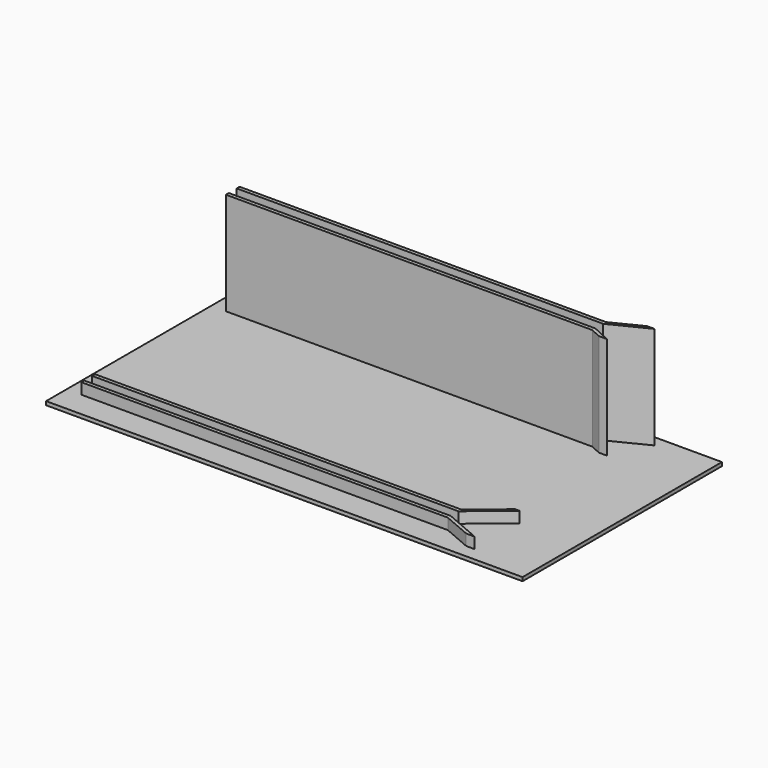
from build123d import *

# Parameters (mm, degrees)
SKETCH_W     = 130
SKETCH_H     = 68
PAD_DEPTH    = 1
SKETCH001_W  = 100
SKETCH001_H  = 1
PAD001_DEPTH = 3
SKETCH002_W  = 100
SKETCH002_H  = 1
PAD002_DEPTH = 3
PAD003_DEPTH = 3
SKETCH004_W  = 100
SKETCH004_H  = 1
PAD004_DEPTH = 28
SKETCH005_W  = 100
SKETCH005_H  = 1
PAD005_DEPTH = 28
PAD006_DEPTH = 28
SKETCH007_W  = 100
SKETCH007_H  = 2.7
PAD007_DEPTH = 25


with BuildPart() as part:
    # Sketch → Pad (new body)
    with BuildSketch(Plane.XY):
        with Locations((65, 34)):
            Rectangle(SKETCH_W, SKETCH_H)
    extrude(amount=-PAD_DEPTH)

    # Sketch001 → Pad001 (join)
    with BuildSketch(Plane.XY):
        with Locations((54, 7.5)):
            Rectangle(SKETCH001_W, SKETCH001_H)
    extrude(amount=PAD001_DEPTH)

    # Sketch002 → Pad002 (join)
    with BuildSketch(Plane.XY):
        with Locations((54, 11.2)):
            Rectangle(SKETCH002_W, SKETCH002_H)
    extrude(amount=PAD002_DEPTH)

    # Sketch003 → Pad003 (join)
    with BuildSketch(Plane.XY):
        Polygon((104, 10.7), (114, 19), (112.795181, 19), (104, 11.7), align=None)
        Polygon((104, 8), (114, 3.7), (111.674419, 3.7), (104, 7), align=None)
    extrude(amount=PAD003_DEPTH)

    # Sketch004 → Pad004 (join)
    with BuildSketch(Plane.XY):
        with Locations((54, 56.8)):
            Rectangle(SKETCH004_W, SKETCH004_H)
    extrude(amount=PAD004_DEPTH)

    # Sketch005 → Pad005 (join)
    with BuildSketch(Plane.XY):
        with Locations((54, 60.5)):
            Rectangle(SKETCH005_W, SKETCH005_H)
    extrude(amount=PAD005_DEPTH)

    # Sketch006 → Pad006 (join)
    with BuildSketch(Plane.XY):
        Polygon((104, 61), (112, 65), (114, 65), (104, 60), align=None)
        Polygon((104, 57.3), (109, 55), (106.826087, 55), (104, 56.3), align=None)
    extrude(amount=PAD006_DEPTH)

    # Sketch007 → Pad007 (join)
    with BuildSketch(Plane.XY):
        with Locations((54, 58.65)):
            Rectangle(SKETCH007_W, SKETCH007_H)
    extrude(amount=PAD007_DEPTH)


solid = part.part
